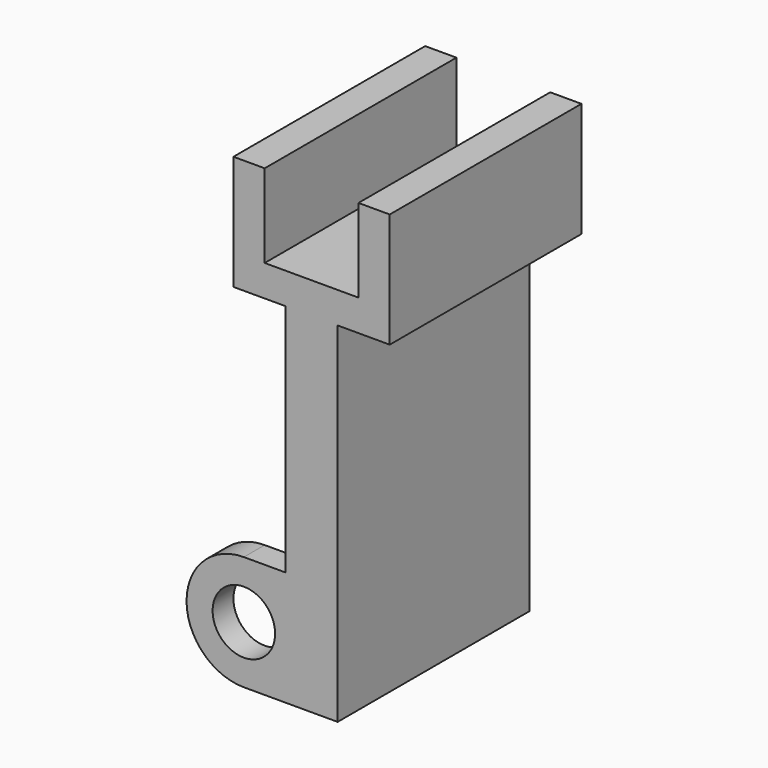
from build123d import *

# Parameters (mm, degrees)
F1_DEPTH = 116.84
F2_W     = 25.4
F2_H     = 116.84
F3_DEPTH = 170.18
F4_R     = 15.24
F5_DEPTH = 12.7


with BuildPart() as f1:
    # F0 (on Front) → F1 (new body)
    with BuildSketch(Plane.XZ):
        Polygon((-38.1, 86.1008339764), (0, 86.1008339764), (38.1, 86.1008339764), (38.1, 141.9808339764), (22.86, 141.9808339764), (22.86, 101.3408339764), (0, 101.3408339764), (-22.86, 101.3408339764), (-22.86, 141.9808339764), (-38.1, 141.9808339764), align=None)
    extrude(amount=F1_DEPTH)

    # F2 (on face) → F3 (join)
    with BuildSketch(Plane(origin=(0, 0, 86.1008339764), x_dir=(1, 0, 0), z_dir=(0, 0, -1))):
        with Locations((0, 58.42)):
            Rectangle(F2_W, F2_H)
    extrude(amount=F3_DEPTH)

    # F4 (on face) → F5 (join)
    with BuildSketch(Plane(origin=(0, 0, 0), x_dir=(-1, 0, 0), z_dir=(0, 1, 0))):
        with BuildLine():
            Line((12.7, -84.0791660236), (33.02, -84.0791660236))
            ThreePointArc((33.02, -84.0791660236), (60.96, -56.1391660236), (33.02, -28.1991660236))
            Line((33.02, -28.1991660236), (12.7, -28.1991660236))
            Line((12.7, -28.1991660236), (12.7, -84.0791660236))
        make_face()
        with Locations((33.02, -56.1391660236)):
            Circle(F4_R, mode=Mode.SUBTRACT)
    extrude(amount=-F5_DEPTH)

    # F7: F1 across plane


with BuildPart() as f1_1:
    add(f1.part)
    add(f1.part.mirror(Plane.XZ.offset(58.42)))


solid = f1_1.part
